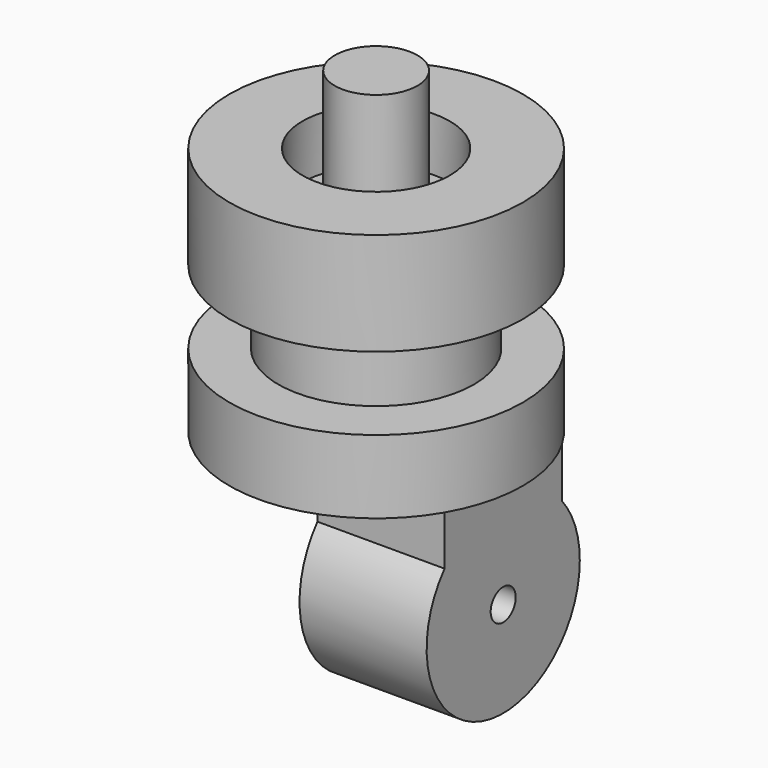
from build123d import *

# Parameters (mm, degrees)
F0_R      = 30
F1_DEPTH  = 15
F2_R      = 15.05
F3_DEPTH  = 5
F4_DEPTH  = 6
F5_R      = 20
F6_DEPTH  = 15
F7_R      = 30
F7_R_2    = 20
F8_DEPTH  = 15
F9_W      = 12.9903810568
F9_H      = 30
F10_DEPTH = 10.1
F11_R     = 3.2
F12_DEPTH = 25.98076
F13_R     = 8.45
F14_DEPTH = 25


with BuildPart() as f1:
    # F0 (on Top) → F1 (new body)
    with BuildSketch(Plane.XY):
        Circle(F0_R)
    extrude(amount=F1_DEPTH)

    # F2 (on face) → F3 (cut)
    with BuildSketch(Plane.XY.offset(15)):
        Circle(F2_R)
    extrude(amount=-F3_DEPTH, mode=Mode.SUBTRACT)

    # F4 (add): a face of the model
    f4_faces = [f1.faces().sort_by_distance(p)[0] for p in [
        (-29.1514718626, 0, 15),
    ]]
    extrude(f4_faces, amount=F4_DEPTH)

    # F5 (on face) → F6 (join)
    with BuildSketch(Plane(origin=(0, 0, 0), x_dir=(1, 0, 0), z_dir=(0, 0, -1))):
        Circle(F5_R)
    extrude(amount=F6_DEPTH)

    # F7 (on face) → F8 (join)
    with BuildSketch(Plane(origin=(0, 0, -15), x_dir=(1, 0, 0), z_dir=(0, 0, -1))):
        Circle(F7_R)
        Circle(F7_R_2, mode=Mode.SUBTRACT)
        Circle(F7_R_2)
    extrude(amount=F8_DEPTH)

    # F9 (on face) → F10 (join)
    with BuildSketch(Plane(origin=(0, 0, -30), x_dir=(1, 0, 0), z_dir=(0, 0, -1))):
        with Locations((6.4951905284, 0)):
            Rectangle(F9_W, F9_H)
        with Locations((19.4855715851, 0)):
            Rectangle(F9_W, F9_H)
    extrude(amount=F10_DEPTH)

    # F11 (on face) → F12 (join)
    with BuildSketch(Plane.YZ.offset(25.9807621135)):
        with BuildLine():
            Line((15, -40.1), (0, -40.1))
            Line((0, -40.1), (-15, -40.1))
            ThreePointArc((-15, -40.1), (-6.688399949, -71.0645284311), (19.5714285714, -52.6714285714))
            ThreePointArc((19.5714285714, -52.6714285714), (18.3930998597, -45.9830286224), (15, -40.1))
        make_face()
        with Locations((0, -52.6714285714)):
            Circle(F11_R, mode=Mode.SUBTRACT)
    extrude(amount=-F12_DEPTH)

    # F13 (on face) → F14 (join)
    with BuildSketch(Plane.XY.offset(10)):
        Circle(F13_R)
    extrude(amount=F14_DEPTH)


solid = f1.part
